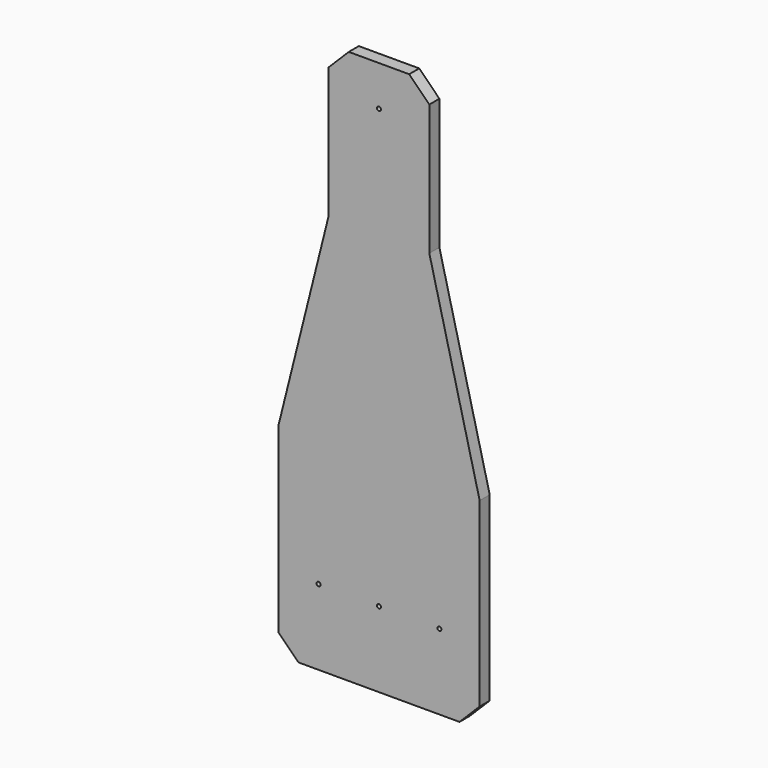
from build123d import *

# Parameters (mm, degrees)
F1_DEPTH = 25
F2_R     = 4
F3_DEPTH = 25
F4_SIZE  = 40
F5_DEPTH = 25


with BuildPart() as f1:
    # F0 (on Front) → F1 (new body)
    with BuildSketch(Plane.XZ):
        Polygon((0, 400), (0, 0), (400, 0), (400, 400), (300, 800), (300, 1100), (100, 1100), (100, 800), align=None)
    extrude(amount=F1_DEPTH)

    # F2 (on face) → F3 (cut, through all)
    with BuildSketch(Plane.XZ.offset(25)):
        with Locations((80, 150)):
            Circle(F2_R)
        with Locations((320, 150)):
            Circle(F2_R)
        with Locations((200, 1020)):
            Circle(F2_R)
    extrude(amount=-F3_DEPTH, mode=Mode.SUBTRACT)

    # F4
    f4_edges = [f1.edges().sort_by_distance(p)[0] for p in [
        (400, -12.5, 0),
        (0, -12.5, 0),
        (300, -12.5, 1100),
        (100, -12.5, 1100),
    ]]
    chamfer(f4_edges, length=F4_SIZE)

    # F2 (on face) → F5 (cut)
    with BuildSketch(Plane.XZ.offset(25)):
        with Locations((200, 150)):
            Circle(F2_R)
    extrude(amount=-F5_DEPTH, mode=Mode.SUBTRACT)


solid = f1.part
